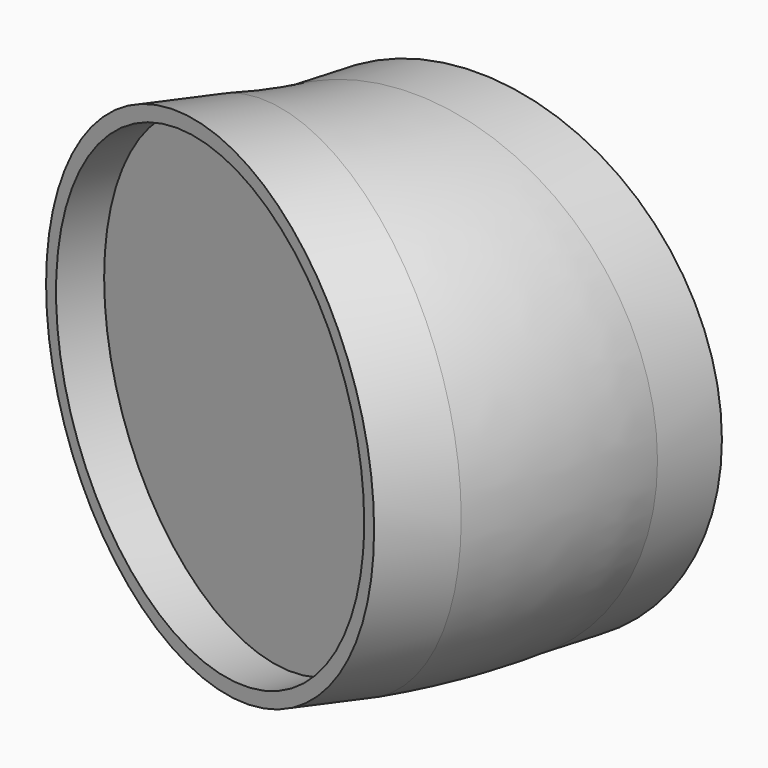
from build123d import *

# Parameters (mm, degrees)
SKETCH001_R     = 16.55
SKETCH002_R     = 1.65
POCKET_DEPTH    = 4
SKETCH003_R     = 15.55
POCKET001_DEPTH = 3


with BuildPart() as part:
    # AdditivePipe: sweep along a path in Sketch
    with BuildLine(Plane.XY) as additivepipe_path:
        Line((-7, -14), (-4.184254, -10.124458))
        ThreePointArc((-4.184254, -10.124458), (-2.415843, -7.191583), (-1.173735, -4))
        Line((-1.173735, -4), (0, 0))
    # Sketch001 → AdditivePipe (sweep)
    with BuildSketch(Plane.XZ):
        Circle(SKETCH001_R)
    sweep(path=additivepipe_path.line)

    # Sketch002 (on Face5 of AdditivePipe) → Pocket (cut)
    with BuildSketch(Plane(origin=(0, 0, 0), x_dir=(1, 0, 0), z_dir=(0, 1, 0))):
        with Locations((-8.548413, -6.093699)):
            Circle(SKETCH002_R)
        with Locations((-6.093229, 6.62862)):
            Circle(SKETCH002_R)
        with Locations((10.825222, 4.173435)):
            Circle(SKETCH002_R)
        with Locations((6.316611, -9.575596)):
            Circle(SKETCH002_R)
    extrude(amount=-POCKET_DEPTH, mode=Mode.SUBTRACT)

    # Sketch003 (on Face1 of Pocket) → Pocket001 (cut)
    with BuildSketch(Plane(origin=(-5.2243, -14.633924, 0), x_dir=(0.941785, -0.336216, 0), z_dir=(-0.336216, -0.941785, 0))):
        with Locations((-1.885463, 0)):
            Circle(SKETCH003_R)
    extrude(amount=-POCKET001_DEPTH, mode=Mode.SUBTRACT)


solid = part.part
